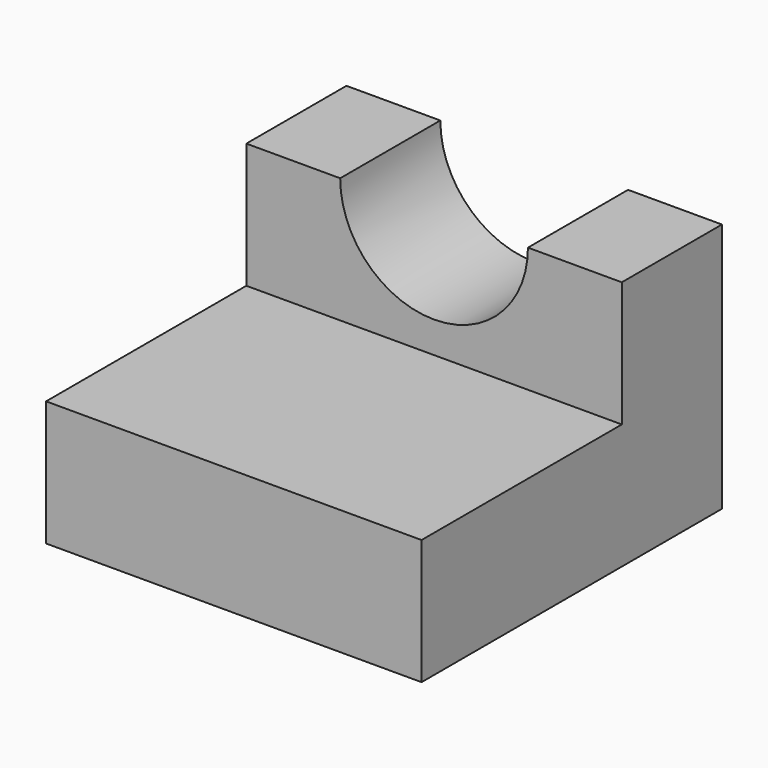
from build123d import *

# Parameters (mm, degrees)
F0_W     = 60
F0_H     = 60
F1_DEPTH = 20
F2_W     = 60
F2_H     = 20
F3_DEPTH = 40
F5_DEPTH = 25


with BuildPart() as f1:
    # F0 (on Top) → F1 (new body)
    with BuildSketch(Plane.XY):
        with Locations((30, 30)):
            Rectangle(F0_W, F0_H)
    extrude(amount=-F1_DEPTH)

    # F2 (on face) → F3 (join)
    with BuildSketch(Plane(origin=(0, 0, -20), x_dir=(1, 0, 0), z_dir=(0, 0, -1))):
        with Locations((30, -50)):
            Rectangle(F2_W, F2_H)
    extrude(amount=-F3_DEPTH)

    # F4 (on face) → F5 (cut)
    with BuildSketch(Plane.XZ.offset(-40)):
        with BuildLine():
            Line((45, 20), (15, 20))
            ThreePointArc((15, 20), (30, 5), (45, 20))
        make_face()
    extrude(amount=-F5_DEPTH, mode=Mode.SUBTRACT)


solid = f1.part
